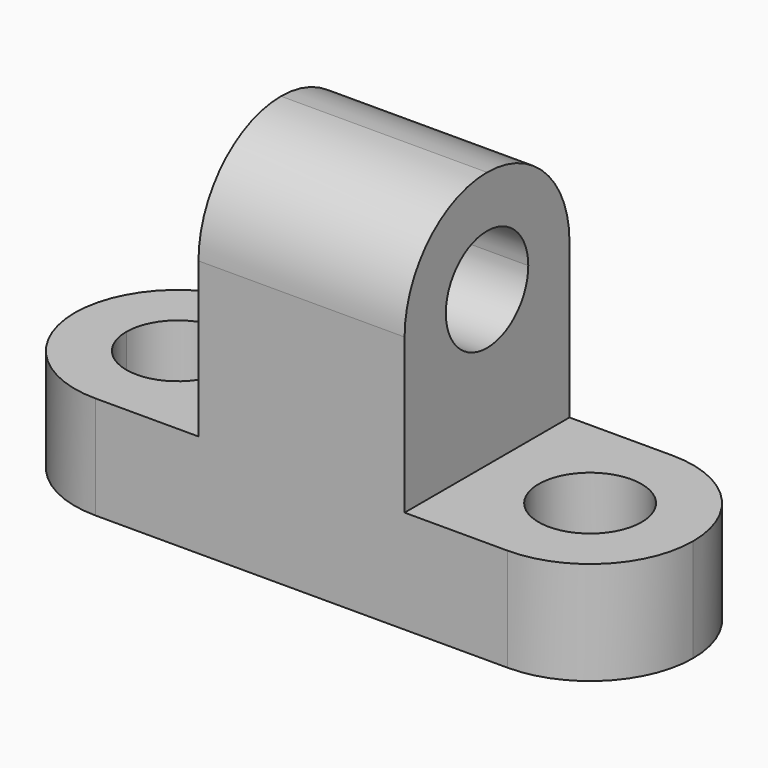
from build123d import *

# Parameters (mm, degrees)
F1_DEPTH = 25.4
F2_R     = 6.35
F3_DEPTH = 12.701
F5_DEPTH = 50.801
F7_DEPTH = 12.701


with BuildPart() as f1:
    # F0 (on Front) → F1 (new body)
    with BuildSketch(Plane.XZ):
        Polygon((-70.5749627616, 18.429359109), (-70.5749627616, 5.729359109), (5.6250372384, 5.729359109), (5.6250372384, 18.429359109), (-19.7749627616, 18.429359109), (-19.7749627616, 50.179359109), (-45.1749627616, 50.179359109), (-45.1749627616, 18.429359109), align=None)
    extrude(amount=F1_DEPTH)

    # F2 (on face) → F3 (cut, through all)
    with BuildSketch(Plane.XY.offset(18.429359109)):
        with Locations((-7.0749627616, -12.7)):
            Circle(F2_R)
        with BuildLine():
            ThreePointArc((5.6250372384, -12.7), (1.9052933594, -21.6802561211), (-7.0749627616, -25.4))
            Line((-7.0749627616, -25.4), (5.6250372384, -25.4))
            Line((5.6250372384, -25.4), (5.6250372384, -12.7))
        make_face()
        with BuildLine():
            ThreePointArc((-7.0749627616, 0), (1.9052933594, -3.7197438789), (5.6250372384, -12.7))
            Line((5.6250372384, -12.7), (5.6250372384, 0))
            Line((5.6250372384, 0), (-7.0749627616, 0))
        make_face()
    extrude(amount=-F3_DEPTH, mode=Mode.SUBTRACT)

    # F4 (on face) → F5 (cut, through all)
    with BuildSketch(Plane.YZ.offset(-19.7749627616)):
        with BuildLine():
            ThreePointArc((-19.05, 37.479359109), (-12.7, 31.129359109), (-6.35, 37.479359109))
            ThreePointArc((-6.35, 37.479359109), (-8.2098719395, 41.9694871695), (-12.7, 43.829359109))
            ThreePointArc((-12.7, 43.829359109), (-17.1901280605, 41.9694871695), (-19.05, 37.479359109))
        make_face()
        with BuildLine():
            ThreePointArc((-25.4, 37.479359109), (-21.6802561211, 46.45961523), (-12.7, 50.179359109))
            Line((-12.7, 50.179359109), (-25.4, 50.179359109))
            Line((-25.4, 50.179359109), (-25.4, 37.479359109))
        make_face()
        with BuildLine():
            ThreePointArc((-12.7, 50.179359109), (-3.7197438789, 46.45961523), (0, 37.479359109))
            Line((0, 37.479359109), (0, 50.179359109))
            Line((0, 50.179359109), (-12.7, 50.179359109))
        make_face()
    extrude(amount=-F5_DEPTH, mode=Mode.SUBTRACT)

    # F6 (on face) → F7 (cut, through all)
    with BuildSketch(Plane.XY.offset(18.429359109)):
        with BuildLine():
            ThreePointArc((-70.5749627616, -12.60582854), (-66.8220875421, -3.6863877476), (-57.8749627616, 0))
            Line((-57.8749627616, 0), (-70.5749627616, 0))
            Line((-70.5749627616, 0), (-70.5749627616, -12.60582854))
        make_face()
        with BuildLine():
            Line((-70.5749627616, -25.4), (-57.8749627616, -25.4))
            ThreePointArc((-57.8749627616, -25.4), (-66.8220875421, -21.7136122524), (-70.5749627616, -12.79417146))
            Line((-70.5749627616, -12.79417146), (-70.5749627616, -25.4))
        make_face()
        with BuildLine():
            ThreePointArc((-57.8749627616, -19.05), (-53.3848347011, -17.1901280605), (-51.5249627616, -12.7))
            ThreePointArc((-51.5249627616, -12.7), (-53.3848347011, -8.2098719395), (-57.8749627616, -6.35))
            ThreePointArc((-57.8749627616, -6.35), (-62.3650908222, -8.2098719395), (-64.2249627616, -12.7))
            ThreePointArc((-64.2249627616, -12.7), (-62.3650908222, -17.1901280605), (-57.8749627616, -19.05))
        make_face()
    extrude(amount=-F7_DEPTH, mode=Mode.SUBTRACT)


solid = f1.part
